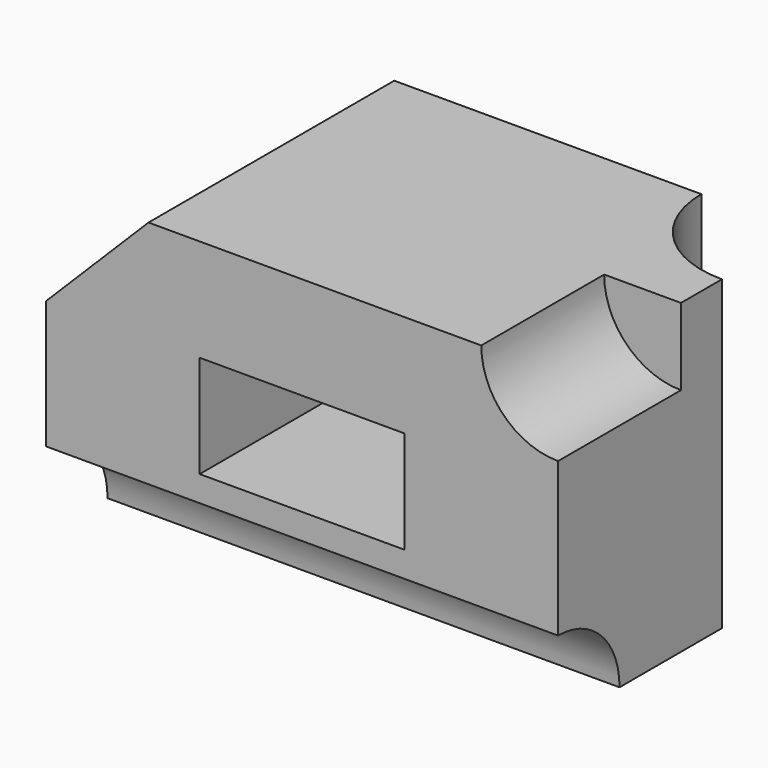
from build123d import *

# Parameters (mm, degrees)
F1_DEPTH = 30
F2_W     = 20
F2_H     = 10
F3_DEPTH = 20
F5_DEPTH = 15
F7_DEPTH = 50.001
F9_DEPTH = 30.001


with BuildPart() as f1:
    # F0 (on Front) → F1 (new body)
    with BuildSketch(Plane.XZ):
        Polygon((-50, 0), (0, 0), (0, 30), (-40, 30), (-50, 20), align=None)
    extrude(amount=F1_DEPTH)

    # F2 (on face) → F3 (cut)
    with BuildSketch(Plane.XZ.offset(30)):
        with Locations((-25, 15)):
            Rectangle(F2_W, F2_H)
    extrude(amount=-F3_DEPTH, mode=Mode.SUBTRACT)

    # F4 (on face) → F5 (cut)
    with BuildSketch(Plane.XZ.offset(30)):
        with BuildLine():
            Line((0, 30), (-7.5, 30))
            ThreePointArc((-7.5, 30), (-5.3033008589, 24.6966991411), (0, 22.5))
            Line((0, 22.5), (0, 30))
        make_face()
    extrude(amount=-F5_DEPTH, mode=Mode.SUBTRACT)

    # F6 (on face) → F7 (cut, through all)
    with BuildSketch(Plane.YZ):
        with BuildLine():
            Line((-30, 0), (-22.5, 0))
            ThreePointArc((-22.5, 0), (-24.6966991411, 5.3033008589), (-30, 7.5))
            Line((-30, 7.5), (-30, 0))
        make_face()
    extrude(amount=-F7_DEPTH, mode=Mode.SUBTRACT)

    # F8 (on face) → F9 (cut, through all)
    with BuildSketch(Plane.XY.offset(30)):
        with BuildLine():
            Line((0, 0), (-10, 0))
            ThreePointArc((-10, 0), (-7.0710678119, -7.0710678119), (0, -10))
            Line((0, -10), (0, 0))
        make_face()
    extrude(amount=-F9_DEPTH, mode=Mode.SUBTRACT)


solid = f1.part
